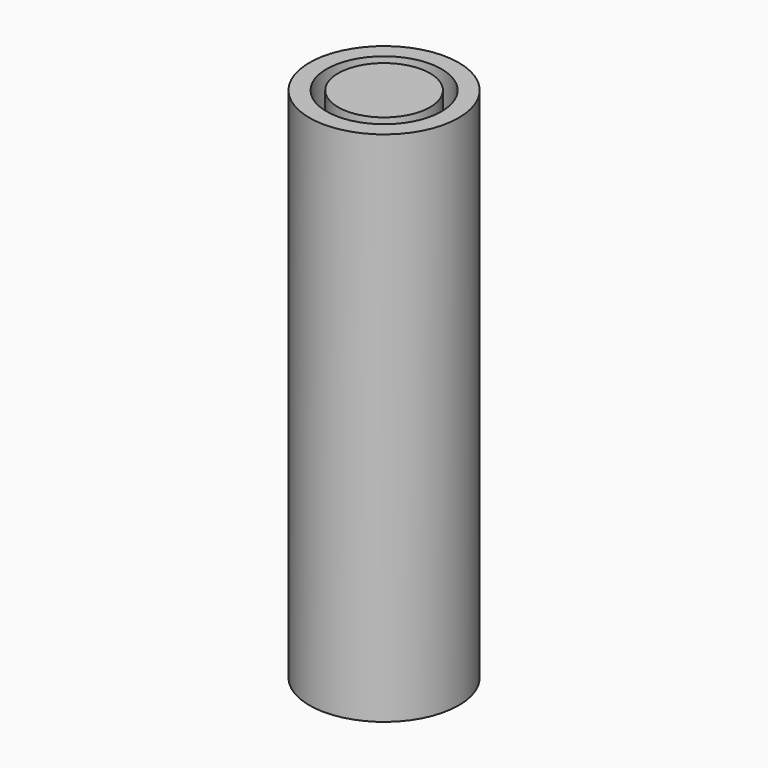
from build123d import *

# Parameters (mm, degrees)
F0_R     = 4
F1_DEPTH = 45
F0_R_2   = 6.5
F0_R_3   = 5


with BuildPart() as f1:
    # F0 (on Top) → F1 (new body)
    with BuildSketch(Plane.XY):
        Circle(F0_R)
    extrude(amount=-F1_DEPTH)


with BuildPart() as f1b:
    # F0 (on Top) → F1, piece 2 (new body)
    with BuildSketch(Plane.XY):
        Circle(F0_R_2)
        Circle(F0_R_3, mode=Mode.SUBTRACT)
    extrude(amount=-F1_DEPTH)


solid = Compound([f1.part, f1b.part])
